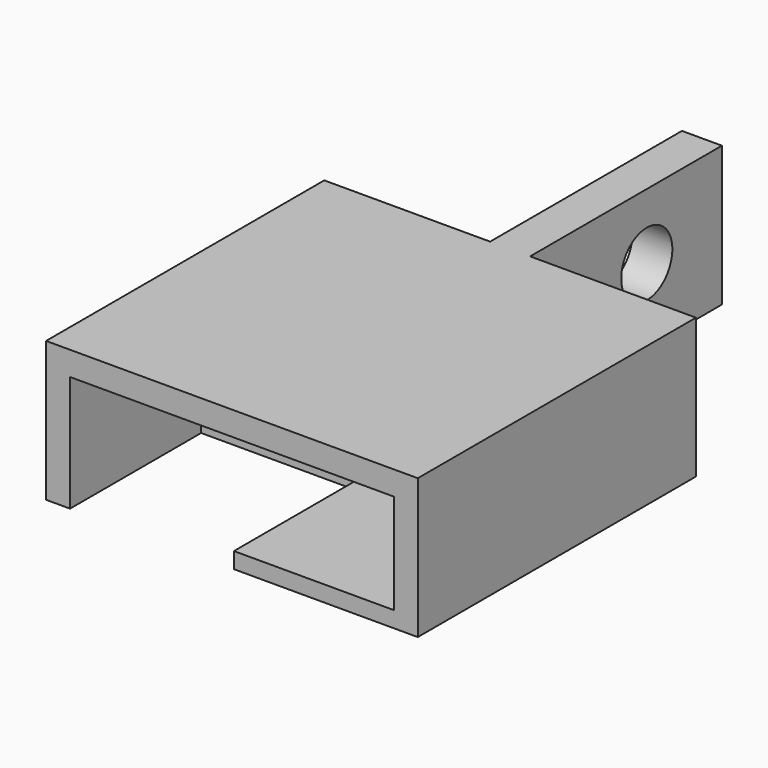
from build123d import *

# Parameters (mm, degrees)
SKETCH_W        = 46.5
SKETCH_H        = 43.5
PAD_DEPTH       = 17.5
SKETCH001_W     = 40.5
SKETCH001_H     = 12.5
POCKET_DEPTH    = 40.5
SKETCH002_W     = 20.5
SKETCH002_H     = 20.5
POCKET001_DEPTH = 3
SKETCH003_W     = 5
SKETCH003_H     = 30
PAD001_DEPTH    = 17.5
SKETCH004_R     = 4
POCKET002_DEPTH = 5
POCKET003_DEPTH = 100


with BuildPart() as part:
    # Sketch → Pad (new body)
    with BuildSketch(Plane.XY):
        Rectangle(SKETCH_W, SKETCH_H)
    extrude(amount=PAD_DEPTH)

    # Sketch001 (on Face3 of Pad) → Pocket (cut)
    with BuildSketch(Plane.XZ.offset(21.75)):
        with Locations((0, 8.25)):
            Rectangle(SKETCH001_W, SKETCH001_H)
    extrude(amount=-POCKET_DEPTH, mode=Mode.SUBTRACT)

    # Sketch002 (on Face4 of Pocket) → Pocket001 (cut)
    with BuildSketch(Plane(origin=(0, 0, 0), x_dir=(1, 0, 0), z_dir=(0, 0, -1))):
        with Locations((-10, 11.5)):
            Rectangle(SKETCH002_W, SKETCH002_H)
    extrude(amount=-POCKET001_DEPTH, mode=Mode.SUBTRACT)

    # Sketch003 (on Face5 of Pocket001) → Pad001 (join)
    with BuildSketch(Plane.XY.offset(17.5)):
        with Locations((0, 36.75)):
            Rectangle(SKETCH003_W, SKETCH003_H)
    extrude(amount=-PAD001_DEPTH)

    # Sketch004 (on Face19 of Pad001) → Pocket002 (cut)
    with BuildSketch(Plane.YZ.offset(-20.25)):
        with Locations((40, 9.25)):
            Circle(SKETCH004_R)
    extrude(amount=-POCKET002_DEPTH, mode=Mode.SUBTRACT)

    # Sketch004 (on Face19 of Pad001) → Pocket003 (cut)
    with BuildSketch(Plane.YZ.offset(-20.25)):
        with Locations((40, 9.25)):
            Circle(SKETCH004_R)
    extrude(amount=POCKET003_DEPTH, mode=Mode.SUBTRACT)


solid = part.part
